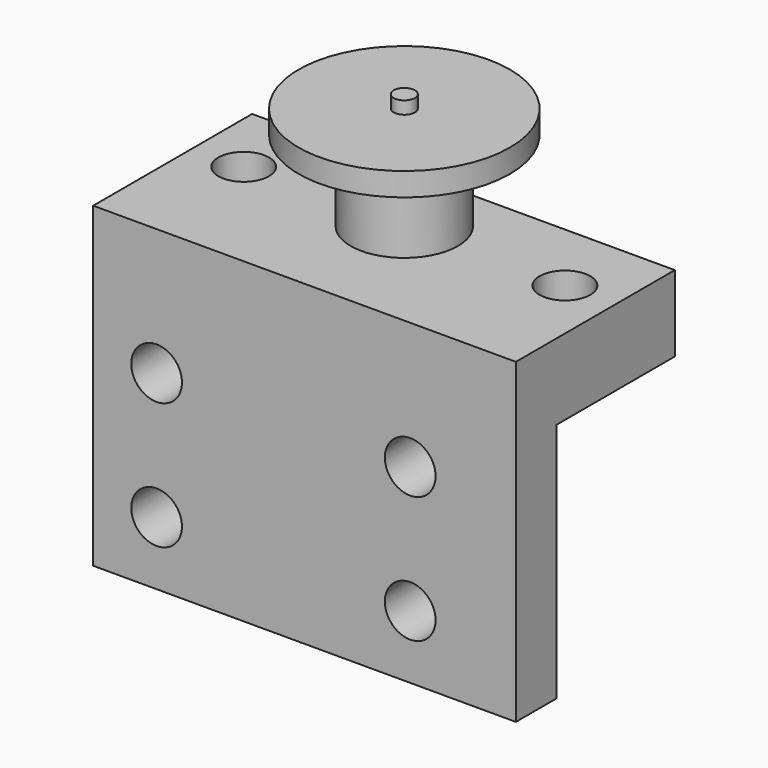
from build123d import *

# Parameters (mm, degrees)
F0_W      = 100
F0_H      = 35
F1_DEPTH  = 18
F3_D      = 12
F4_R      = 12.7
F5_DEPTH  = 19
F6_R      = 25
F6_R_2    = 12.7
F7_DEPTH  = 5.5
F8_R      = 2.5
F9_DEPTH  = 3
F10_W     = 100
F10_H     = 57
F10_H_2   = 18
F11_DEPTH = 12
F13_D     = 12


with BuildPart() as f1:
    # F0 (on Top) → F1 (new body)
    with BuildSketch(Plane.XY):
        Rectangle(F0_W, F0_H)
    extrude(amount=-F1_DEPTH)

    # F3 (through all)
    with Locations(Plane.XY):
        with Locations((-38, 0), (38, 0)):
            Hole(F3_D / 2)

    # F4 (on face) → F5 (join)
    with BuildSketch(Plane.XY):
        Circle(F4_R)
    extrude(amount=F5_DEPTH)

    # F6 (on face) → F7 (join)
    with BuildSketch(Plane.XY.offset(19)):
        Circle(F6_R)
        Circle(F6_R_2, mode=Mode.SUBTRACT)
        Circle(F6_R_2)
    extrude(amount=F7_DEPTH)

    # F8 (on face) → F9 (join)
    with BuildSketch(Plane.XY.offset(24.5)):
        Circle(F8_R)
    extrude(amount=F9_DEPTH)

    # F10 (on face) → F11 (join)
    with BuildSketch(Plane.XZ.offset(17.5)):
        with Locations((0, -46.5)):
            Rectangle(F10_W, F10_H)
        with Locations((0, -9)):
            Rectangle(F10_W, F10_H_2)
    extrude(amount=F11_DEPTH)

    # F13 (through all)
    with Locations(Plane(origin=(0, -17.5, 0), x_dir=(-1, 0, 0), z_dir=(0, 1, 0))):
        with Locations((-25, -30), (-25, -60), (35, -60), (35, -30)):
            Hole(F13_D / 2)


solid = f1.part
